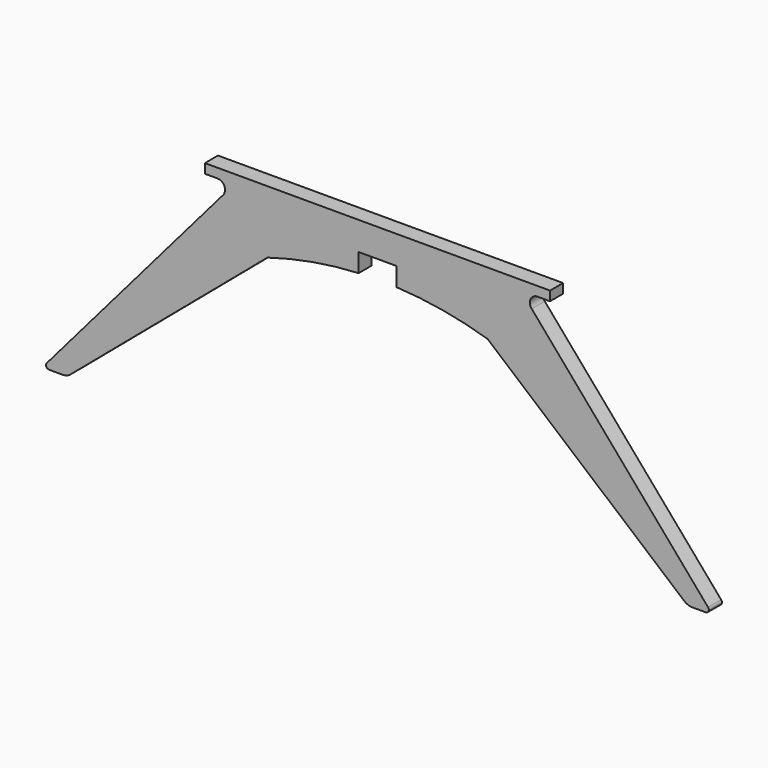
from build123d import *

# Parameters (mm, degrees)
F1_DEPTH = 26


with BuildPart() as f1:
    # F0 (on Front) → F1 (new body)
    with BuildSketch(Plane.XZ):
        with BuildLine():
            ThreePointArc((522.115478, -370), (526.65902, -367.087157), (525.908713, -361.74249))
            Line((525.908713, -361.74249), (245.312642, -35))
            ThreePointArc((245.312642, -35), (243.49537, -22.055015), (254.5, -15))
            Line((254.5, -15), (274.5, -15))
            Line((274.5, -15), (274.5, 0))
            Line((274.5, 0), (-274.5, 0))
            Line((-274.5, 0), (-274.5, -15))
            Line((-274.5, -15), (-254.5, -15))
            ThreePointArc((-254.5, -15), (-243.49537, -22.055015), (-245.312642, -35))
            Line((-245.312642, -35), (-525.908713, -361.74249))
            ThreePointArc((-525.908713, -361.74249), (-526.65902, -367.087157), (-522.115478, -370))
            Line((-522.115478, -370), (-500.930536, -370))
            ThreePointArc((-500.930536, -370), (-494.044191, -368.777067), (-488, -365.257826))
            Line((-488, -365.257826), (-175, -100))
            ThreePointArc((-175, -100), (-103.279947, -82.867809), (-30, -74.662483))
            Line((-30, -74.662483), (-30, -45))
            Line((-30, -45), (30, -45))
            Line((30, -45), (30, -74.662483))
            ThreePointArc((30, -74.662483), (103.279947, -82.867809), (175, -100))
            Line((175, -100), (488, -365.257826))
            ThreePointArc((488, -365.257826), (494.044191, -368.777067), (500.930536, -370))
            Line((500.930536, -370), (522.115478, -370))
        make_face()
    extrude(amount=F1_DEPTH)


solid = f1.part
